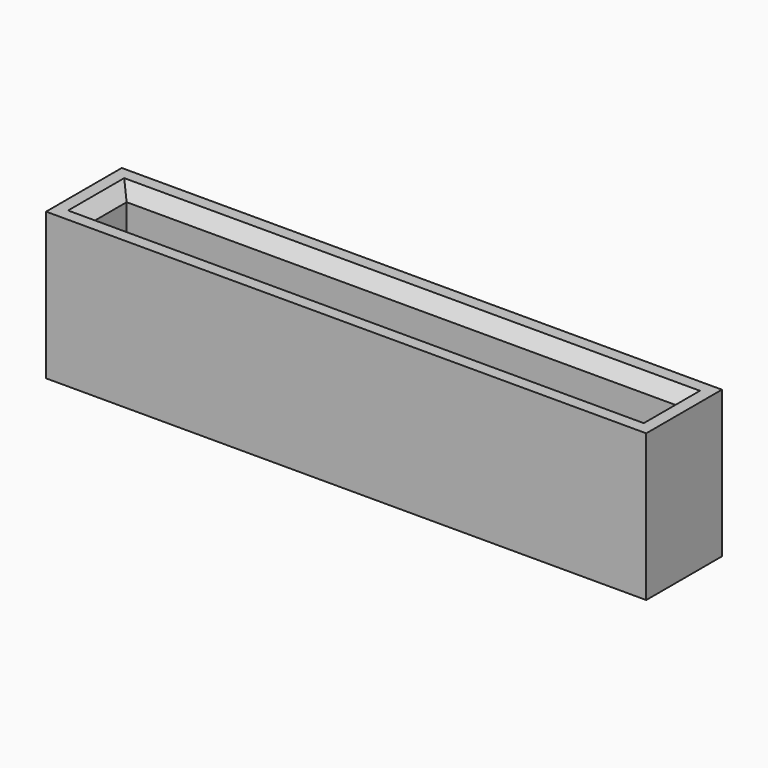
from build123d import *

# Parameters (mm, degrees)
SKETCH_W     = 36.8
SKETCH_H     = 5.8
SKETCH_W_2   = 33.8
SKETCH_H_2   = 2.8
PAD_DEPTH    = 9
CHAMFER_SIZE = 0.75


with BuildPart() as part:
    # Sketch → Pad (new body)
    with BuildSketch(Plane.XY):
        Rectangle(SKETCH_W, SKETCH_H)
        Rectangle(SKETCH_W_2, SKETCH_H_2, mode=Mode.SUBTRACT)
    extrude(amount=PAD_DEPTH)

    # Chamfer
    chamfer_edges = [part.edges().sort_by_distance(p)[0] for p in [
        (0, 1.4, 9),
        (0, -1.4, 9),
        (-16.9, 0, 9),
        (16.9, 0, 9),
    ]]
    chamfer(chamfer_edges, length=CHAMFER_SIZE)


solid = part.part
